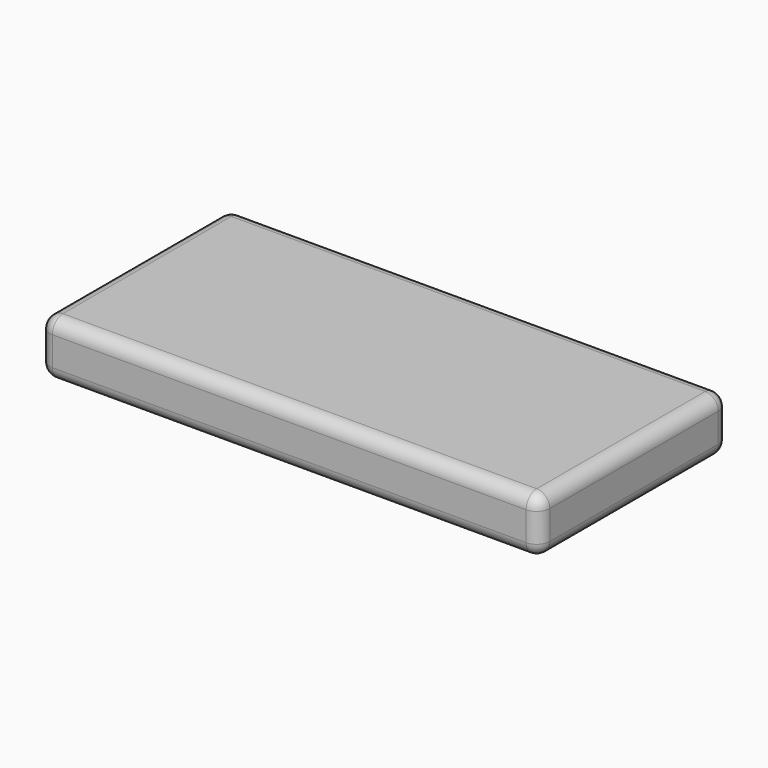
from build123d import *

# Parameters (mm, degrees)
F0_W     = 1900
F0_H     = 900
F1_DEPTH = 210
F2_R     = 50
F3_R     = 50


with BuildPart() as f1:
    # F0 (on Top) → F1 (new body)
    with BuildSketch(Plane.XY):
        Rectangle(F0_W, F0_H)
    extrude(amount=F1_DEPTH)

    # F2
    f2_edges = [f1.edges().sort_by_distance(p)[0] for p in [
        (-950, 450, 105),
        (-950, -450, 105),
        (950, -450, 105),
        (950, 450, 105),
    ]]
    fillet(f2_edges, radius=F2_R)

    # F3
    f3_edges = [f1.edges().sort_by_distance(p)[0] for p in [
        (0, -450, 210),
        (0, -450, 0),
    ]]
    fillet(f3_edges, radius=F3_R)


solid = f1.part
